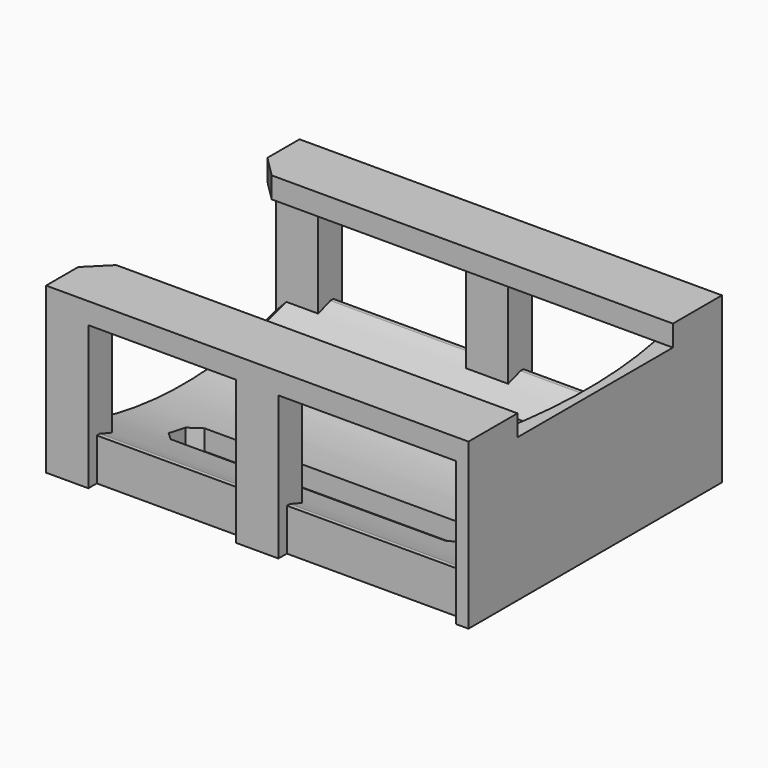
from build123d import *

# Parameters (mm, degrees)
CYLINDER001_R     = 120
CYLINDER001_DEPTH = 40
BOX001_W          = 10
BOX001_H          = 75
BOX001_DEPTH      = 34
CHAMFER004_SIZE   = 5
BOX008_W          = 70
BOX008_H          = 10
BOX008_DEPTH      = 10
CHAMFER_SIZE      = 2.5
BOX009_W          = 70
BOX009_H          = 10
BOX009_DEPTH      = 10
CHAMFER001_SIZE   = 2.5
CYLINDER005_R     = 2
CYLINDER005_DEPTH = 10
CYLINDER004_R     = 4
CYLINDER004_DEPTH = 10
CYLINDER003_R     = 2
CYLINDER003_DEPTH = 10
CYLINDER002_R     = 4
CYLINDER002_DEPTH = 10
CYLINDER_R        = 100
CYLINDER_DEPTH    = 100
BOX_W             = 100
BOX_H             = 70
BOX_DEPTH         = 10
CHAMFER012_SIZE   = 2.5
BOX002_W          = 10
BOX002_H          = 7
BOX002_DEPTH      = 34
BOX003_W          = 100
BOX003_H          = 14.5
BOX003_DEPTH      = 5
BOX004_W          = 10
BOX004_H          = 7
BOX004_DEPTH      = 34
BOX005_W          = 10
BOX005_H          = 7
BOX005_DEPTH      = 34
BOX006_W          = 10
BOX006_H          = 7
BOX006_DEPTH      = 34
BOX007_W          = 100
BOX007_H          = 14.5
BOX007_DEPTH      = 5
CHAMFER013_SIZE   = 5


with BuildPart() as cylinder001:
    # Cylinder001 → Cylinder001 (new body)
    with BuildSketch(Plane(origin=(-22, 35, 0), x_dir=(1, 0, 0), z_dir=(0, 0, 1))):
        Circle(CYLINDER001_R)
    extrude(amount=CYLINDER001_DEPTH)


with BuildPart() as chamfer004:
    # Box001 → Box001 (new body)
    with BuildSketch(Plane(origin=(90, -2.5, 0), x_dir=(1, 0, 0), z_dir=(0, 0, 1))):
        with Locations((5, 37.5)):
            Rectangle(BOX001_W, BOX001_H)
    extrude(amount=BOX001_DEPTH)

    # Cut001: cut Cylinder001
    add(cylinder001.part, mode=Mode.SUBTRACT)

    # Chamfer004
    chamfer004_edges = [chamfer004.edges().sort_by_distance(p)[0] for p in [
        (91.990131, -2.5, 17),
        (91.990131, 72.5, 17),
    ]]
    chamfer(chamfer004_edges, length=CHAMFER004_SIZE)


with BuildPart() as chamfer_body:
    # Box008 → Box008 (new body)
    with BuildSketch(Plane.XY):
        with Locations((35, 5)):
            Rectangle(BOX008_W, BOX008_H)
    extrude(amount=BOX008_DEPTH)

    # Chamfer
    chamfer_edges = [chamfer_body.edges().sort_by_distance(p)[0] for p in [
        (0, 0, 5),
        (0, 10, 5),
        (70, 0, 5),
        (70, 10, 5),
    ]]
    chamfer(chamfer_edges, length=CHAMFER_SIZE)


with BuildPart() as chamfer_body_1:
    # Chamfer placement: moved
    add(chamfer_body.part.moved(Location((15, 12.5, 0))))


with BuildPart() as fusion004:
    # Box009 → Box009 (new body)
    with BuildSketch(Plane.XY):
        with Locations((35, 5)):
            Rectangle(BOX009_W, BOX009_H)
    extrude(amount=BOX009_DEPTH)

    # Chamfer001
    chamfer001_edges = [fusion004.edges().sort_by_distance(p)[0] for p in [
        (0, 0, 5),
        (0, 10, 5),
        (70, 0, 5),
        (70, 10, 5),
    ]]
    chamfer(chamfer001_edges, length=CHAMFER001_SIZE)


with BuildPart() as fusion004_1:
    # Chamfer001 placement: moved
    add(fusion004.part.moved(Location((15, 48.5, 0))))

    # Fusion004: union Chamfer body
    add(chamfer_body_1.part)


with BuildPart() as cone001:
    # Cone001 → Cone001 (revolve)
    with BuildSketch(Plane(origin=(0, 35, 10), x_dir=(1, 0, 0), z_dir=(0, -1, 0))):
        Polygon((0, 0), (2, 0), (4, 3), (0, 3), align=None)
    revolve(axis=Axis((0, 35, 10), (0, 0, 1)))


with BuildPart() as cylinder005:
    # Cylinder005 → Cylinder005 (new body)
    with BuildSketch(Plane(origin=(0, 35, 0), x_dir=(1, 0, 0), z_dir=(0, 0, 1))):
        Circle(CYLINDER005_R)
    extrude(amount=CYLINDER005_DEPTH)


with BuildPart() as countersink_mount001:
    # Cylinder004 → Cylinder004 (new body)
    with BuildSketch(Plane(origin=(0, 35, 13), x_dir=(1, 0, 0), z_dir=(0, 0, 1))):
        Circle(CYLINDER004_R)
    extrude(amount=CYLINDER004_DEPTH)

    # Fusion001: union Cone001, Cylinder005
    add(cone001.part)
    add(cylinder005.part)


with BuildPart() as countersink_mount001_1:
    # Fusion001 placement: moved
    add(countersink_mount001.part.moved(Location((75, 0, -9))))


with BuildPart() as cone:
    # Cone → Cone (revolve)
    with BuildSketch(Plane(origin=(0, 35, 10), x_dir=(1, 0, 0), z_dir=(0, -1, 0))):
        Polygon((0, 0), (2, 0), (4, 3), (0, 3), align=None)
    revolve(axis=Axis((0, 35, 10), (0, 0, 1)))


with BuildPart() as cylinder003:
    # Cylinder003 → Cylinder003 (new body)
    with BuildSketch(Plane(origin=(0, 35, 0), x_dir=(1, 0, 0), z_dir=(0, 0, 1))):
        Circle(CYLINDER003_R)
    extrude(amount=CYLINDER003_DEPTH)


with BuildPart() as fusion002:
    # Cylinder002 → Cylinder002 (new body)
    with BuildSketch(Plane(origin=(0, 35, 13), x_dir=(1, 0, 0), z_dir=(0, 0, 1))):
        Circle(CYLINDER002_R)
    extrude(amount=CYLINDER002_DEPTH)

    # Fusion: union Cone, Cylinder003
    add(cone.part)
    add(cylinder003.part)


with BuildPart() as fusion002_1:
    # Fusion placement: moved
    add(fusion002.part.moved(Location((25, 0, -9))))

    # Fusion002: union countersink mount001
    add(countersink_mount001_1.part)


with BuildPart() as cylinder:
    # Cylinder → Cylinder (new body)
    with BuildSketch(Plane(origin=(0, 35, 104), x_dir=(0, 0, -1), z_dir=(1, 0, 0))):
        Circle(CYLINDER_R)
    extrude(amount=CYLINDER_DEPTH)


with BuildPart() as chamfer012:
    # Box → Box (new body)
    with BuildSketch(Plane.XY):
        with Locations((50, 35)):
            Rectangle(BOX_W, BOX_H)
    extrude(amount=BOX_DEPTH)

    # Cut: cut Cylinder
    add(cylinder.part, mode=Mode.SUBTRACT)

    # Cut002: cut Fusion002
    add(fusion002_1.part, mode=Mode.SUBTRACT)

    # Cut003: cut Fusion004
    add(fusion004_1.part, mode=Mode.SUBTRACT)

    # Chamfer012
    chamfer012_edges = [chamfer012.edges().sort_by_distance(p)[0] for p in [
        (0, 17.679492, 5.511422),
        (0, 52.320508, 5.511422),
    ]]
    chamfer(chamfer012_edges, length=CHAMFER012_SIZE)


with BuildPart() as cube002:
    # Box002 → Box002 (new body)
    with BuildSketch(Plane(origin=(0, 65.5, 0), x_dir=(1, 0, 0), z_dir=(0, 0, 1))):
        with Locations((5, 3.5)):
            Rectangle(BOX002_W, BOX002_H)
    extrude(amount=BOX002_DEPTH)


with BuildPart() as cube003:
    # Box003 → Box003 (new body)
    with BuildSketch(Plane(origin=(0, 58, 34), x_dir=(1, 0, 0), z_dir=(0, 0, 1))):
        with Locations((50, 7.25)):
            Rectangle(BOX003_W, BOX003_H)
    extrude(amount=BOX003_DEPTH)


with BuildPart() as cube004:
    # Box004 → Box004 (new body)
    with BuildSketch(Plane(origin=(45, 65.5, 0), x_dir=(1, 0, 0), z_dir=(0, 0, 1))):
        with Locations((5, 3.5)):
            Rectangle(BOX004_W, BOX004_H)
    extrude(amount=BOX004_DEPTH)


with BuildPart() as cube005:
    # Box005 → Box005 (new body)
    with BuildSketch(Plane(origin=(0, -2.5, 0), x_dir=(1, 0, 0), z_dir=(0, 0, 1))):
        with Locations((5, 3.5)):
            Rectangle(BOX005_W, BOX005_H)
    extrude(amount=BOX005_DEPTH)


with BuildPart() as cube006:
    # Box006 → Box006 (new body)
    with BuildSketch(Plane(origin=(45, -2.5, 0), x_dir=(1, 0, 0), z_dir=(0, 0, 1))):
        with Locations((5, 3.5)):
            Rectangle(BOX006_W, BOX006_H)
    extrude(amount=BOX006_DEPTH)


with BuildPart() as chamfer013:
    # Box007 → Box007 (new body)
    with BuildSketch(Plane(origin=(0, -2.5, 34), x_dir=(1, 0, 0), z_dir=(0, 0, 1))):
        with Locations((50, 7.25)):
            Rectangle(BOX007_W, BOX007_H)
    extrude(amount=BOX007_DEPTH)

    # Fusion003: union Cube002, Cube003, Cube004, Cube005, Cube006
    add(cube002.part)
    add(cube003.part)
    add(cube004.part)
    add(cube005.part)
    add(cube006.part)

    # Fusion005: union Chamfer004, Chamfer012
    add(chamfer004.part)
    add(chamfer012.part)

    # Chamfer013
    chamfer013_edges = [chamfer013.edges().sort_by_distance(p)[0] for p in [
        (0, 12, 36.5),
        (0, 58, 36.5),
    ]]
    chamfer(chamfer013_edges, length=CHAMFER013_SIZE)


solid = chamfer013.part
